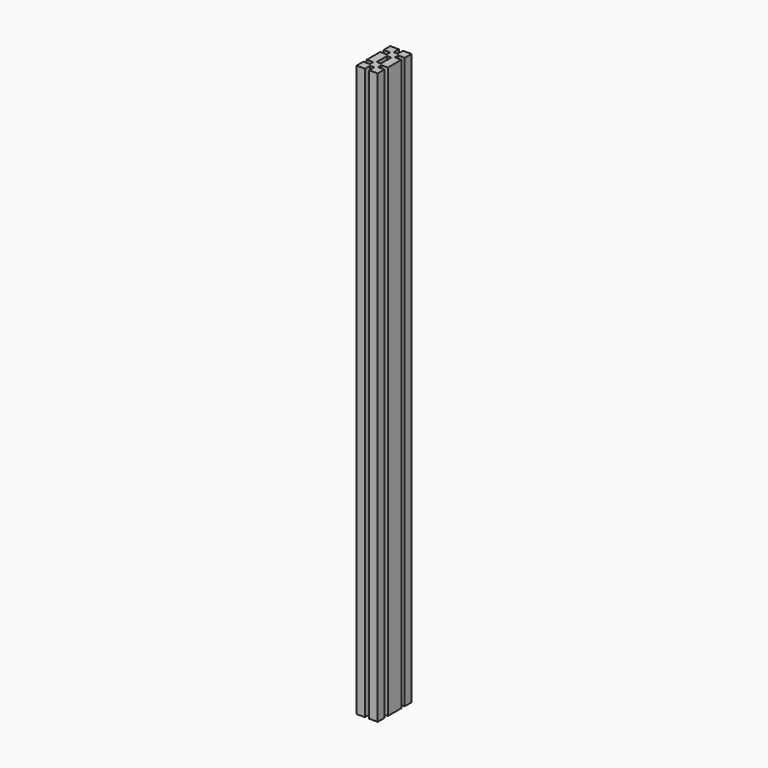
from build123d import *

# Parameters (mm, degrees)
F1_DEPTH = 1080


with BuildPart() as f1:
    # F0 (on Top) → F1 (new body)
    with BuildSketch(Plane.XY):
        Polygon((0, 16), (0, 0), (16, 0), (16, 12.25), (24, 12.25), (24, 0), (40, 0), (40, 16), (27.75, 16), (27.75, 24), (40, 24), (40, 40), (24, 40), (24, 27.75), (16, 27.75), (16, 40), (0, 40), (0, 24), (12.25, 24), (12.25, 16), align=None)
        Polygon((16, 0), (0, 0), (0, -16), (12.25, -16), (12.25, -24), (0, -24), (0, -40), (16, -40), (16, -27.75), (24, -27.75), (24, -40), (40, -40), (40, -24), (27.75, -24), (27.75, -16), (40, -16), (40, 0), (24, 0), (24, -12.25), (16, -12.25), align=None)
    extrude(amount=F1_DEPTH)


solid = f1.part
